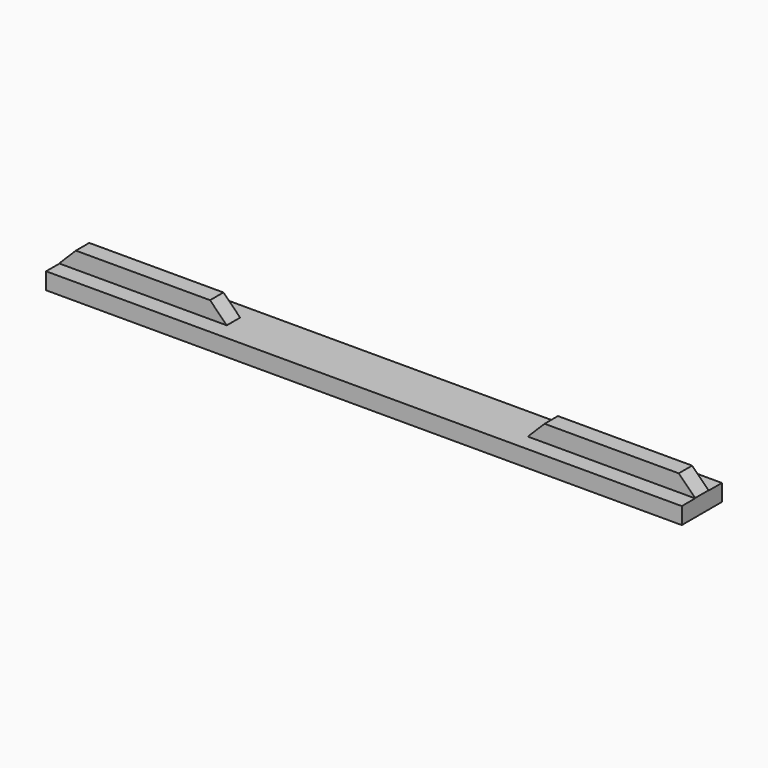
from build123d import *

# Parameters (mm, degrees)
SKETCH_W        = 190
SKETCH_H        = 15
PAD_DEPTH       = 5
SKETCH001_W     = 50
SKETCH001_H     = 5
PAD001_DEPTH    = 5
CHAMFER_SIZE    = 4.99
CHAMFER001_SIZE = 4.9
SKETCH002_W     = 1.482422
SKETCH002_H     = 8.21213
SKETCH002_R     = 1.233891
POCKET_DEPTH    = 1


with BuildPart() as part:
    # Sketch → Pad (new body)
    with BuildSketch(Plane.XY):
        with Locations((95, 7.5)):
            Rectangle(SKETCH_W, SKETCH_H)
    extrude(amount=PAD_DEPTH)

    # Sketch001 → Pad001 (new body)
    with BuildSketch(Plane.XY.offset(5)):
        with Locations((25, 7.5)):
            Rectangle(SKETCH001_W, SKETCH001_H)
        with Locations((165, 7.5)):
            Rectangle(SKETCH001_W, SKETCH001_H)
    extrude(amount=PAD001_DEPTH)

    # Chamfer
    chamfer_edges = [part.edges().sort_by_distance(p)[0] for p in [
        (50, 7.5, 10),
        (140, 7.5, 10),
    ]]
    chamfer(chamfer_edges, length=CHAMFER_SIZE)

    # Chamfer001
    chamfer001_edges = [part.edges().sort_by_distance(p)[0] for p in [
        (0, 7.5, 10),
        (190, 7.5, 10),
    ]]
    chamfer(chamfer001_edges, length=CHAMFER001_SIZE)

    # Sketch002 → Pocket (cut)
    with BuildSketch(Plane(origin=(0, 0, 0), x_dir=(1, 0, 0), z_dir=(0, 0, -1))):
        with Locations((35.621345, -6.948972)):
            Rectangle(SKETCH002_W, SKETCH002_H)
        Polygon((42.648026, -2.522297), (40.098263, -2.522297), (39.090214, -4.716282), (39.920372, -6.554486), (41.521393, -6.791675), (42.648026, -6.554486), (42.648026, -11.055037), (44.189751, -11.055037), (44.189751, -2.522297), align=None)
        with Locations((41.758575, -4.597689)):
            Circle(SKETCH002_R, mode=Mode.SUBTRACT)
        with BuildLine():
            add(Edge.make_bspline(
                [(48.459129, -2.517788), (43.348099, -2.730781), (46.170445, -9.027221), (48.99279, -15.323661), (51.281474, -8.814228), (53.570159, -2.304795), (48.459129, -2.517788)],
                knots=[0, 0, 0, 2.094395, 2.094395, 4.18879, 4.18879, 6.283185, 6.283185, 6.283185], degree=2, weights=[1, 0.5, 1, 0.5, 1, 0.5, 1]))
        make_face()
        with BuildLine():
            add(Edge.make_bspline(
                [(48.696312, -3.692728), (45.129949, -3.624372), (46.824186, -8.299076), (48.518424, -12.973781), (50.39055, -8.367432), (52.262675, -3.761084), (48.696312, -3.692728)],
                knots=[0, 0, 0, 2.094395, 2.094395, 4.18879, 4.18879, 6.283185, 6.283185, 6.283185], degree=2, weights=[1, 0.5, 1, 0.5, 1, 0.5, 1]))
        make_face(mode=Mode.SUBTRACT)
    extrude(amount=-POCKET_DEPTH, mode=Mode.SUBTRACT)


solid = part.part
